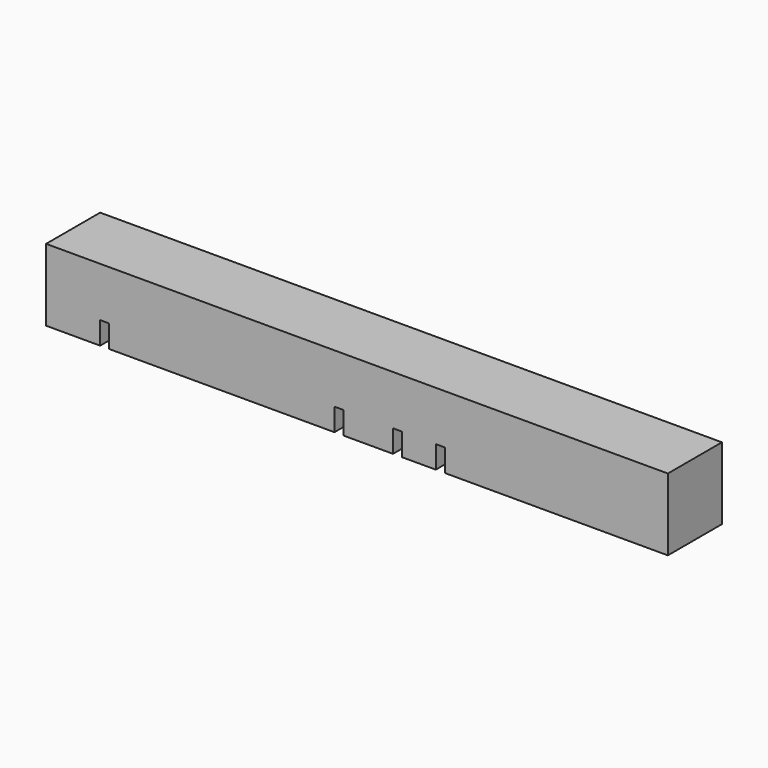
from build123d import *

# Parameters (mm, degrees)
PAD_DEPTH       = 16
SKETCH001_W     = 112
SKETCH001_H     = 1.5
SKETCH001_W_2   = 16
SKETCH001_H_2   = 7.5
POCKET_DEPTH    = 15.5
SKETCH002_W     = 2
SKETCH002_H     = 12.5
SKETCH002_H_2   = 4
SKETCH002_H_3   = 6.5
POCKET001_DEPTH = 5


with BuildPart() as part:
    # Sketch → Pad (new body)
    with BuildSketch(Plane.XY):
        Polygon((-60, 7.5), (60, 7.5), (60, -7.5), (-60, -7.5), (-78, -7.5), (-78, 7.5), align=None)
    extrude(amount=PAD_DEPTH)

    # Sketch001 → Pocket (cut)
    with BuildSketch(Plane.XY):
        with Locations((0, 5.75)):
            Rectangle(SKETCH001_W, SKETCH001_H)
        with Locations((9.5, 0.25)):
            Rectangle(SKETCH001_W_2, SKETCH001_H_2)
        with Locations((-13, 0.25)):
            Rectangle(SKETCH001_W_2, SKETCH001_H_2)
        with Locations((-65, 2.75)):
            Rectangle(SKETCH001_W_2, SKETCH001_H_2)
    extrude(amount=POCKET_DEPTH, mode=Mode.SUBTRACT)

    # Sketch002 → Pocket001 (cut)
    with BuildSketch(Plane.XY):
        with Locations((0, -1.25)):
            Rectangle(SKETCH002_W, SKETCH002_H)
        with Locations((-13, -5.5)):
            Rectangle(SKETCH002_W, SKETCH002_H_2)
        with Locations((9.5, -5.5)):
            Rectangle(SKETCH002_W, SKETCH002_H_2)
        with Locations((-65, -4.25)):
            Rectangle(SKETCH002_W, SKETCH002_H_3)
    extrude(amount=POCKET001_DEPTH, mode=Mode.SUBTRACT)


solid = part.part
